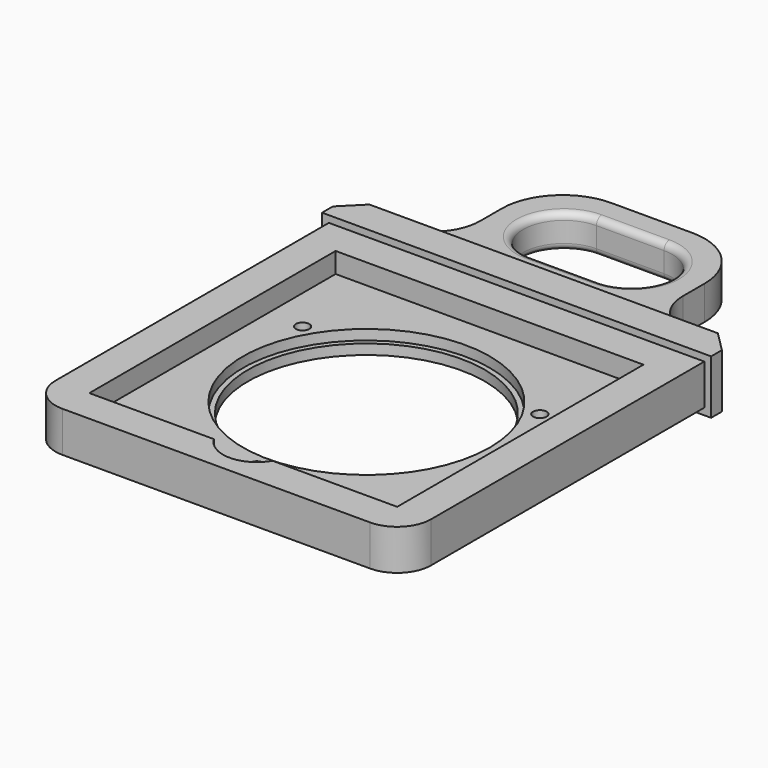
from build123d import *

# Parameters (mm, degrees)
SKETCH_W        = 55.5
SKETCH_H        = 55.5
SKETCH_R        = 18.25
PAD_DEPTH       = 6
SKETCH001_W     = 57.5
SKETCH001_H     = 8
PAD001_DEPTH    = 5
SKETCH002_W     = 30
SKETCH002_H     = 5
PAD002_DEPTH    = 20
FILLET_R        = 5
POCKET_DEPTH    = 6
FILLET001_R     = 9
FILLET002_R     = 7
CHAMFER_SIZE    = 3
SKETCH004_R     = 18.25
SKETCH004_R_2   = 17.5
PAD003_DEPTH    = 1.5
SKETCH005_W     = 45.5
SKETCH005_H     = 45.5
POCKET001_DEPTH = 3
SKETCH006_R     = 1
POCKET002_DEPTH = 6
FILLET003_R     = 1
FILLET004_R     = 1
SKETCH007_R     = 5
POCKET003_DEPTH = 2.999


with BuildPart() as part:
    # Sketch → Pad (new body)
    with BuildSketch(Plane.XY):
        Rectangle(SKETCH_W, SKETCH_H)
        Circle(SKETCH_R, mode=Mode.SUBTRACT)
    extrude(amount=PAD_DEPTH)

    # Sketch001 → Pad001 (new body)
    with BuildSketch(Plane(origin=(0, 27.75, 0), x_dir=(-1, 0, 0), z_dir=(0, 1, 0))):
        with Locations((0, 3)):
            Rectangle(SKETCH001_W, SKETCH001_H)
    extrude(amount=PAD001_DEPTH)

    # Sketch002 → Pad002 (new body)
    with BuildSketch(Plane(origin=(0, 32.75, 0), x_dir=(-1, 0, 0), z_dir=(0, 1, 0))):
        with Locations((0, 3)):
            Rectangle(SKETCH002_W, SKETCH002_H)
    extrude(amount=PAD002_DEPTH)

    # Fillet
    fillet_edges = [part.edges().sort_by_distance(p)[0] for p in [
        (-27.75, -27.75, 3),
        (27.75, -27.75, 3),
    ]]
    fillet(fillet_edges, radius=FILLET_R)

    # Sketch003 → Pocket (cut)
    with BuildSketch(Plane(origin=(0, 0, 0.5), x_dir=(1, 0, 0), z_dir=(0, 0, -1))):
        with BuildLine():
            ThreePointArc((-5, -36.75), (-11, -42.75), (-5, -48.75))
            Line((-5, -48.75), (5, -48.75))
            ThreePointArc((5, -48.75), (11, -42.75), (5, -36.75))
            Line((-5, -36.75), (5, -36.75))
        make_face()
    extrude(amount=-POCKET_DEPTH, mode=Mode.SUBTRACT)

    # Fillet001
    fillet001_edges = [part.edges().sort_by_distance(p)[0] for p in [
        (15, 52.75, 3),
        (-15, 52.75, 3),
    ]]
    fillet(fillet001_edges, radius=FILLET001_R)

    # Fillet002
    fillet002_edges = [part.edges().sort_by_distance(p)[0] for p in [
        (15, 32.75, 3),
        (-15, 32.75, 3),
    ]]
    fillet(fillet002_edges, radius=FILLET002_R)

    # Chamfer
    chamfer_edges = [part.edges().sort_by_distance(p)[0] for p in [
        (-28.75, 32.75, 3),
        (28.75, 32.75, 3),
    ]]
    chamfer(chamfer_edges, length=CHAMFER_SIZE)

    # Sketch004 → Pad003 (new body)
    with BuildSketch(Plane(origin=(0, 0, 0), x_dir=(1, 0, 0), z_dir=(0, 0, -1))):
        Circle(SKETCH004_R)
        Circle(SKETCH004_R_2, mode=Mode.SUBTRACT)
    extrude(amount=-PAD003_DEPTH)

    # Sketch005 → Pocket001 (cut)
    with BuildSketch(Plane.XY.offset(6)):
        Rectangle(SKETCH005_W, SKETCH005_H)
    extrude(amount=-POCKET001_DEPTH, mode=Mode.SUBTRACT)

    # Sketch006 → Pocket002 (cut)
    with BuildSketch(Plane.XY.offset(3)):
        with Locations((-17.537014, 10.125)):
            Circle(SKETCH006_R)
        with Locations((17.537014, 10.125)):
            Circle(SKETCH006_R)
        with Locations((0, -20.25)):
            Circle(SKETCH006_R)
    extrude(amount=-POCKET002_DEPTH, mode=Mode.SUBTRACT)

    # Fillet003
    fillet003_edges = [part.edges().sort_by_distance(p)[0] for p in [
        (0, 48.75, 5.5),
    ]]
    fillet(fillet003_edges, radius=FILLET003_R)

    # Fillet004
    fillet004_edges = [part.edges().sort_by_distance(p)[0] for p in [
        (0, 36.75, 0.5),
    ]]
    fillet(fillet004_edges, radius=FILLET004_R)

    # Sketch007 → Pocket003 (cut)
    with BuildSketch(Plane.XY.offset(6)):
        with Locations((0, -20.25)):
            Circle(SKETCH007_R)
    extrude(amount=-POCKET003_DEPTH, mode=Mode.SUBTRACT)


solid = part.part
